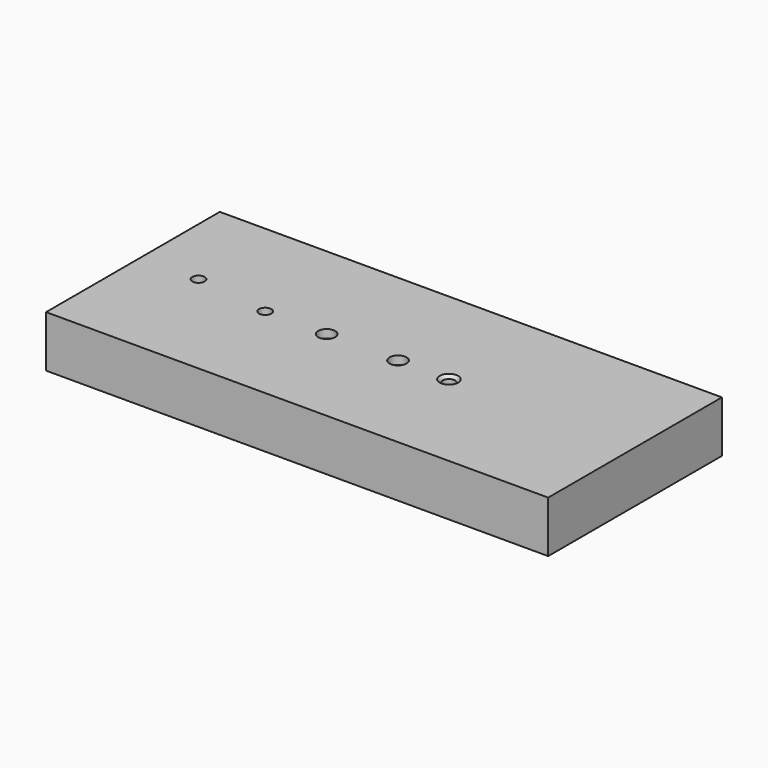
from build123d import *

# Parameters (mm, degrees)
F0_W           = 243.5423284769
F0_H           = 105.3215228021
F1_DEPTH       = 25
F3_D           = 6
F3_DEPTH       = 8
F3_TIP         = 1.8025818571
F4_D           = 6
F4_DEPTH       = 80
F4_TIP         = 1.8025818571
F5_D           = 6
F5_DEPTH       = 80
F5_CBORE_D     = 8.25
F5_CBORE_DEPTH = 4
F5_TIP         = 1.8025818571
F6_D           = 6
F6_DEPTH       = 10
F6_CBORE_D     = 8.25
F6_CBORE_DEPTH = 4
F6_TIP         = 1.8025818571
F7_D           = 6
F7_DEPTH       = 50
F7_CSINK_D     = 8.96
F7_CSINK_ANGLE = 90
F7_TIP         = 1.8025818571


with BuildPart() as f1:
    # F0 (on Top) → F1 (new body)
    with BuildSketch(Plane.XY):
        with Locations((1.9000694156, 0.3356132656)):
            Rectangle(F0_W, F0_H)
    extrude(amount=F1_DEPTH)

    # F3
    with Locations(Plane.XY.offset(25)):
        with Locations((-91.6707515717, 4.8113325611)):
            Hole(F3_D / 2, depth=F3_DEPTH)
            with Locations((0, 0, -(F3_DEPTH + F3_TIP / 2))):  # 118° drill point
                Cone(0, F3_D / 2, F3_TIP, mode=Mode.SUBTRACT)

    # F4
    with Locations(Plane.XY.offset(25)):
        with Locations((-55.4676242173, 0)):
            Hole(F4_D / 2, depth=F4_DEPTH)
            with Locations((0, 0, -(F4_DEPTH + F4_TIP / 2))):  # 118° drill point
                Cone(0, F4_D / 2, F4_TIP, mode=Mode.SUBTRACT)

    # F5
    with Locations(Plane.XY.offset(25)):
        with Locations((-25.6580132991, 0)):
            CounterBoreHole(F5_D / 2, F5_CBORE_D / 2, F5_CBORE_DEPTH, depth=F5_DEPTH)
            with Locations((0, 0, -(F5_DEPTH + F5_TIP / 2))):  # 118° drill point
                Cone(0, F5_D / 2, F5_TIP, mode=Mode.SUBTRACT)

    # F6
    with Locations(Plane.XY.offset(25)):
        with Locations((8.9849950746, 0)):
            CounterBoreHole(F6_D / 2, F6_CBORE_D / 2, F6_CBORE_DEPTH, depth=F6_DEPTH)
            with Locations((0, 0, -(F6_DEPTH + F6_TIP / 2))):  # 118° drill point
                Cone(0, F6_D / 2, F6_TIP, mode=Mode.SUBTRACT)

    # F7
    with Locations(Plane.XY.offset(25)):
        with Locations((33.6551889777, 0)):
            CounterSinkHole(F7_D / 2, F7_CSINK_D / 2, depth=F7_DEPTH, counter_sink_angle=F7_CSINK_ANGLE)
            with Locations((0, 0, -(F7_DEPTH + F7_TIP / 2))):  # 118° drill point
                Cone(0, F7_D / 2, F7_TIP, mode=Mode.SUBTRACT)


solid = f1.part
